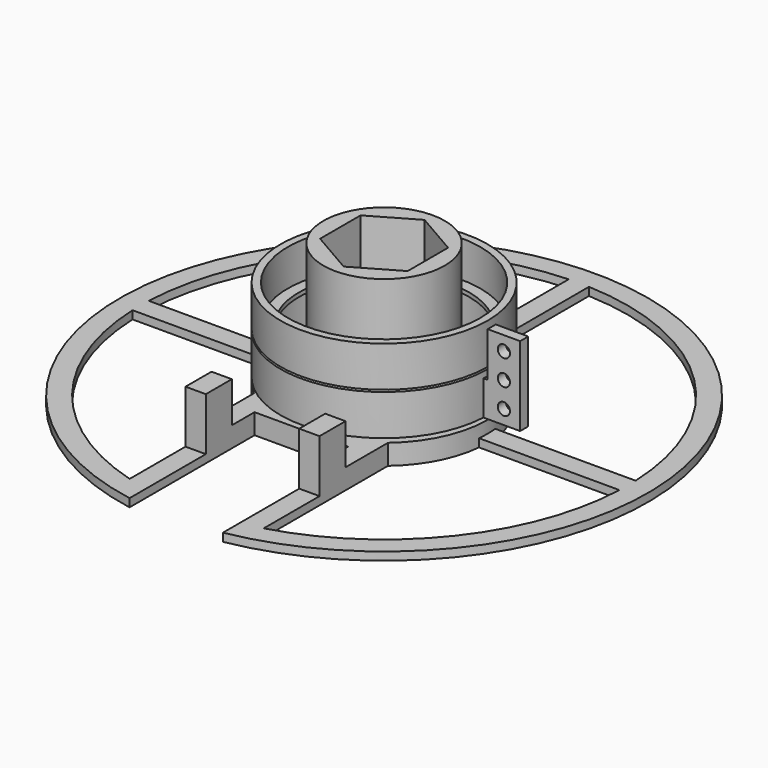
from build123d import *

# Parameters (mm, degrees)
PAD_DEPTH       = 5
SKETCH002_W     = 5
SKETCH002_H     = 8
PAD001_DEPTH    = 10
SKETCH003_R     = 14.95
PAD002_DEPTH    = 30
SKETCH004_R     = 17
PAD003_DEPTH    = 2
POCKET_DEPTH    = 35.001
PAD007_DEPTH    = 2
SKETCH006_R     = 25.5
SKETCH006_R_2   = 21
PAD004_DEPTH    = 10
SKETCH007_R     = 23.7
POCKET001_DEPTH = 9
PAD006_DEPTH    = 1.25
SKETCH011_R     = 1.5
POCKET003_DEPTH = 26.751
SKETCH008_R     = 25.5
SKETCH008_R_2   = 21
PAD005_DEPTH    = 10
SKETCH009_R     = 23.7
POCKET002_DEPTH = 9


with BuildPart() as basis:
    # Sketch → Pad (new body)
    with BuildSketch(Plane.XY):
        with BuildLine():
            Line((-16.5, -19.442222), (-16.5, -40.5))
            Line((-16.5, -40.5), (-11.5, -40.5))
            Line((-11.5, -40.5), (-11.5, -25.5))
            Line((-11.5, -25.5), (11.5, -25.5))
            Line((11.5, -25.5), (11.5, -40.5))
            Line((11.5, -40.5), (16.5, -40.5))
            Line((16.5, -40.5), (16.5, -19.442222))
            ThreePointArc((16.5, -19.442222), (0, 25.5), (-16.5, -19.442222))
        make_face()
    extrude(amount=PAD_DEPTH)

    # Sketch002 (on Face10 of Pad) → Pad001 (join)
    with BuildSketch(Plane.XY.offset(5)):
        with Locations((-14, -36.5)):
            Rectangle(SKETCH002_W, SKETCH002_H)
        with Locations((14, -36.5)):
            Rectangle(SKETCH002_W, SKETCH002_H)
    extrude(amount=PAD001_DEPTH)

    # Sketch003 (on Face5 of Pad001) → Pad002 (join)
    with BuildSketch(Plane.XY.offset(5)):
        Circle(SKETCH003_R)
    extrude(amount=PAD002_DEPTH)

    # Sketch004 (on Face5 of Pad002) → Pad003 (join)
    with BuildSketch(Plane.XY.offset(5)):
        Circle(SKETCH004_R)
    extrude(amount=PAD003_DEPTH)

    # Sketch005 (on Face24 of Pad003) → Pocket (cut, through all)
    with BuildSketch(Plane.XY.offset(35)):
        Polygon((10.782016, -6.225), (10.782016, 6.225), (0, 12.45), (-10.782016, 6.225), (-10.782016, -6.225), (0, -12.45), align=None)
    extrude(amount=-POCKET_DEPTH, mode=Mode.SUBTRACT)

    # Sketch012 → Pad007 (join)
    with BuildSketch(Plane.XY):
        with BuildLine():
            ThreePointArc((16.5, -57.686654), (47.142993, -37.115202), (59.947894, -2.5))
            Line((25.377155, -2.5), (59.947894, -2.5))
            ThreePointArc((25.377155, -2.5), (25.5, 0), (25.377155, 2.5))
            Line((25.377155, 2.5), (59.947894, 2.5))
            ThreePointArc((59.947894, 2.5), (42.426407, 42.426407), (2.5, 59.947894))
            Line((2.5, 25.377155), (2.5, 59.947894))
            ThreePointArc((2.5, 25.377155), (0, 25.5), (-2.5, 25.377155))
            Line((-2.5, 25.377155), (-2.5, 59.947894))
            ThreePointArc((-2.5, 59.947894), (-42.426407, 42.426407), (-59.947894, 2.5))
            Line((-25.377155, 2.5), (-59.947894, 2.5))
            ThreePointArc((-25.377155, 2.5), (-25.5, 0), (-25.377155, -2.5))
            Line((-25.377155, -2.5), (-59.947894, -2.5))
            ThreePointArc((-59.947894, -2.5), (-47.142993, -37.115202), (-16.5, -57.686654))
            Line((-16.5, -40.5), (-16.5, -57.686654))
            Line((-16.5, -40.5), (-11.5, -40.5))
            Line((-11.5, -40.5), (-11.5, -63.974604))
            ThreePointArc((11.5, -63.974604), (0, 65), (-11.5, -63.974604))
            Line((11.5, -40.5), (11.5, -63.974604))
            Line((11.5, -40.5), (16.5, -40.5))
            Line((16.5, -40.5), (16.5, -57.686654))
        make_face()
    extrude(amount=PAD007_DEPTH)


with BuildPart() as lowerring:
    # Sketch006 (on DatumPlane) → Pad004 (new body)
    with BuildSketch(Plane.XY.offset(6)):
        Circle(SKETCH006_R)
        Circle(SKETCH006_R_2, mode=Mode.SUBTRACT)
    extrude(amount=PAD004_DEPTH)

    # Sketch007 (on Face4 of Pad004) → Pocket001 (cut)
    with BuildSketch(Plane.XY.offset(16)):
        Circle(SKETCH007_R)
    extrude(amount=-POCKET001_DEPTH, mode=Mode.SUBTRACT)

    # Sketch010 (on DatumPlane) → Pad006 (join, symmetric)
    with BuildSketch(Plane(origin=(24.5, 0, 6), x_dir=(-1, 0, 0), z_dir=(0, 1, 0))):
        Polygon((0, 0), (-10, 0), (-10, 19.5), (-2, 19.5), (-2, 8.5), (0, 8.5), align=None)
    extrude(amount=PAD006_DEPTH, both=True)

    # Sketch011 (on Face4 of Pad006) → Pocket003 (cut, through all)
    with BuildSketch(Plane(origin=(0, -1.25, 6), x_dir=(1, 0, 0), z_dir=(0, -1, 0))):
        with Locations((30.5, 16)):
            Circle(SKETCH011_R)
        with Locations((30.5, 9.75)):
            Circle(SKETCH011_R)
        with Locations((30.5, 3.5)):
            Circle(SKETCH011_R)
    extrude(amount=-POCKET003_DEPTH, mode=Mode.SUBTRACT)


with BuildPart() as upperring:
    # Sketch008 (on DatumPlane) → Pad005 (new body)
    with BuildSketch(Plane.XY.offset(16.5)):
        Circle(SKETCH008_R)
        Circle(SKETCH008_R_2, mode=Mode.SUBTRACT)
    extrude(amount=PAD005_DEPTH)

    # Sketch009 (on Face4 of Pad005) → Pocket002 (cut)
    with BuildSketch(Plane.XY.offset(26.5)):
        Circle(SKETCH009_R)
    extrude(amount=-POCKET002_DEPTH, mode=Mode.SUBTRACT)


solid = Compound([basis.part, lowerring.part, upperring.part])
